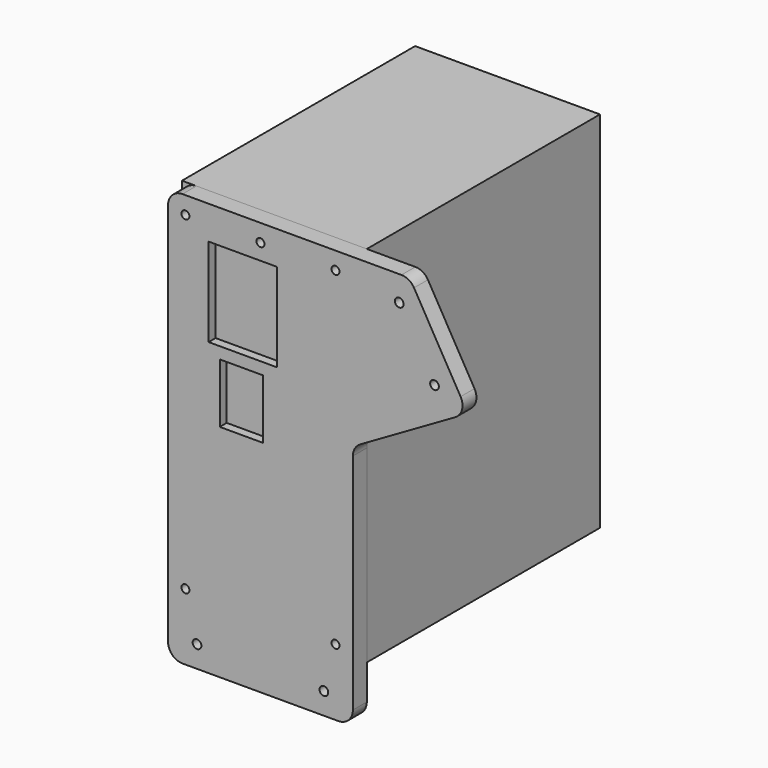
from build123d import *

# Parameters (mm, degrees)
F0_W     = 63.75
F0_H     = 125.5
F1_DEPTH = 100.5
F2_R     = 1.375
F3_DEPTH = 10
F4_W     = 23.5
F4_H     = 30.5
F4_W_2   = 14.85
F4_H_2   = 20.5
F5_DEPTH = 3
F6_DEPTH = 6
F7_W     = 63.75
F7_H     = 17
F7_R     = 1.5
F8_DEPTH = 6
F9_R     = 5


with BuildPart() as f1:
    # F0 (on Front) → F1 (new body)
    with BuildSketch(Plane.XZ):
        Rectangle(F0_W, F0_H)
    extrude(amount=F1_DEPTH)

    # F2 (on face) → F3 (cut)
    with BuildSketch(Plane.XZ.offset(100.5)):
        with Locations((-25.875, 56.75)):
            Circle(F2_R)
        with Locations((0, 56.75)):
            Circle(F2_R)
        with Locations((25.875, 56.75)):
            Circle(F2_R)
        with Locations((25.875, -56.75)):
            Circle(F2_R)
        with Locations((-25.875, -56.75)):
            Circle(F2_R)
    extrude(amount=-F3_DEPTH, mode=Mode.SUBTRACT)

    # F4 (on face) → F5 (join)
    with BuildSketch(Plane.XZ.offset(100.5)):
        with Locations((-6.125, 36)):
            Rectangle(F4_W, F4_H)
        with Locations((-6.6, 6.5)):
            Rectangle(F4_W_2, F4_H_2)
    extrude(amount=F5_DEPTH)


with BuildPart() as f6:
    # F6 (new): a face of the model
    f6_faces = [f1.part.faces().sort_by_distance(p)[0] for p in [
        (0.9207952497, -100.5, -4.0460195944),
    ]]
    extrude(f6_faces, amount=F6_DEPTH)

    # F7 (on face) → F8 (join, through all)
    with BuildSketch(Plane.XZ.offset(106.5)):
        with Locations((0, -71.25)):
            Rectangle(F7_W, F7_H)
        with Locations((-21.875, -72.25)):
            Circle(F7_R, mode=Mode.SUBTRACT)
        with Locations((21.875, -72.25)):
            Circle(F7_R, mode=Mode.SUBTRACT)
        Polygon((51.5049091524, 62.75), (31.875, 62.75), (31.875, 5.2286451315), (71.5049091524, 28.1089838486), align=None)
        with Locations((60.0097186241, 33.0192378865)):
            Circle(F7_R, mode=Mode.SUBTRACT)
        with Locations((47.8446551146, 54.0897459622)):
            Circle(F7_R, mode=Mode.SUBTRACT)
    extrude(amount=-F8_DEPTH)

    # F9
    f9_edges = [f6.edges().sort_by_distance(p)[0] for p in [
        (-31.875, -103.5, 62.75),
        (31.875, -103.5, -79.75),
        (-31.875, -103.5, -79.75),
        (71.504909, -103.5, 28.108984),
        (31.875, -103.5, 5.228645),
        (51.504909, -103.5, 62.75),
    ]]
    fillet(f9_edges, radius=F9_R)


solid = Compound([f1.part, f6.part])
